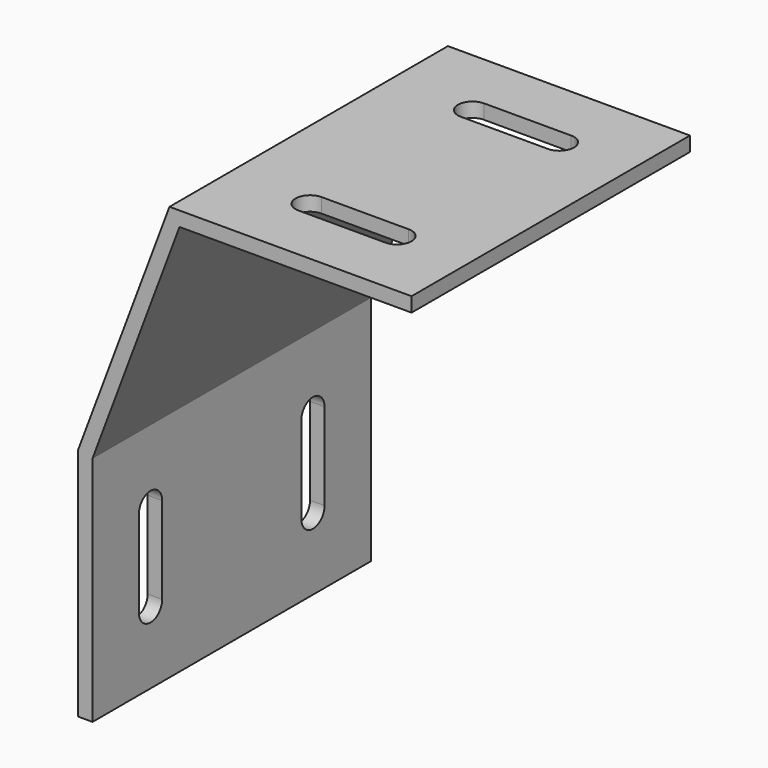
from build123d import *

# Parameters (mm, degrees)
F1_DEPTH = 76.2
F3_DEPTH = 104.776
F4_DEPTH = 104.776
F5_W     = 6.35
F5_H     = 19.05
F6_DEPTH = 73.026
F7_W     = 6.35
F7_H     = 19.05
F8_DEPTH = 73.026


with BuildPart() as f1:
    # F0 (on Front) → F1 (new body)
    with BuildSketch(Plane.XZ):
        Polygon((0, -50.8), (0, 0), (19.05, 50.8), (69.85, 50.8), (69.85, 53.975), (16.849724, 53.975), (-3.175, 0.575737), (-3.175, -50.8), align=None)
    extrude(amount=F1_DEPTH)

    # F2 (on face) → F3 (cut, through all)
    with BuildSketch(Plane.XY.offset(53.975)):
        with BuildLine():
            ThreePointArc((53.975, -19.05), (56.220064, -18.120064), (57.15, -15.875))
            ThreePointArc((57.15, -15.875), (56.220064, -13.629936), (53.975, -12.7))
            ThreePointArc((53.975, -12.7), (50.8, -15.875), (53.975, -19.05))
        make_face()
        with BuildLine():
            ThreePointArc((53.975, -19.05), (50.8, -15.875), (53.975, -12.7))
            Line((53.975, -12.7), (34.925, -12.7))
            ThreePointArc((34.925, -12.7), (37.170064, -13.629936), (38.1, -15.875))
            ThreePointArc((38.1, -15.875), (37.170064, -18.120064), (34.925, -19.05))
            Line((34.925, -19.05), (53.975, -19.05))
        make_face()
        with BuildLine():
            ThreePointArc((38.1, -15.875), (37.170064, -13.629936), (34.925, -12.7))
            ThreePointArc((34.925, -12.7), (31.75, -15.875), (34.925, -19.05))
            ThreePointArc((34.925, -19.05), (37.170064, -18.120064), (38.1, -15.875))
        make_face()
    extrude(amount=-F3_DEPTH, mode=Mode.SUBTRACT)

    # F2 (on face) → F4 (cut, through all)
    with BuildSketch(Plane.XY.offset(53.975)):
        with BuildLine():
            ThreePointArc((38.1, -60.325), (37.170064, -58.079936), (34.925, -57.15))
            ThreePointArc((34.925, -57.15), (31.75, -60.325), (34.925, -63.5))
            ThreePointArc((34.925, -63.5), (37.170064, -62.570064), (38.1, -60.325))
        make_face()
        with BuildLine():
            ThreePointArc((53.975, -63.5), (56.220064, -62.570064), (57.15, -60.325))
            ThreePointArc((57.15, -60.325), (56.220064, -58.079936), (53.975, -57.15))
            ThreePointArc((53.975, -57.15), (50.8, -60.325), (53.975, -63.5))
        make_face()
        with BuildLine():
            ThreePointArc((53.975, -63.5), (50.8, -60.325), (53.975, -57.15))
            Line((53.975, -57.15), (34.925, -57.15))
            ThreePointArc((34.925, -57.15), (37.170064, -58.079936), (38.1, -60.325))
            ThreePointArc((38.1, -60.325), (37.170064, -62.570064), (34.925, -63.5))
            Line((34.925, -63.5), (53.975, -63.5))
        make_face()
    extrude(amount=-F4_DEPTH, mode=Mode.SUBTRACT)

    # F5 (on face) → F6 (cut, through all)
    with BuildSketch(Plane(origin=(-3.175, 0, 0), x_dir=(0, -1, 0), z_dir=(-1, 0, 0))):
        with BuildLine():
            Line((19.05, -34.925), (12.7, -34.925))
            ThreePointArc((12.7, -34.925), (15.875, -38.1), (19.05, -34.925))
        make_face()
        with BuildLine():
            ThreePointArc((19.05, -15.875), (15.875, -12.7), (12.7, -15.875))
            Line((12.7, -15.875), (19.05, -15.875))
        make_face()
        with Locations((15.875, -25.4)):
            Rectangle(F5_W, F5_H)
    extrude(amount=-F6_DEPTH, mode=Mode.SUBTRACT)

    # F7 (on face) → F8 (cut, through all)
    with BuildSketch(Plane(origin=(-3.175, 0, 0), x_dir=(0, -1, 0), z_dir=(-1, 0, 0))):
        with BuildLine():
            Line((57.15, -15.875), (63.5, -15.875))
            ThreePointArc((63.5, -15.875), (60.325, -12.7), (57.15, -15.875))
        make_face()
        with BuildLine():
            ThreePointArc((57.15, -34.925), (60.325, -38.1), (63.5, -34.925))
            Line((63.5, -34.925), (57.15, -34.925))
        make_face()
        with Locations((60.325, -25.4)):
            Rectangle(F7_W, F7_H)
    extrude(amount=-F8_DEPTH, mode=Mode.SUBTRACT)


solid = f1.part
